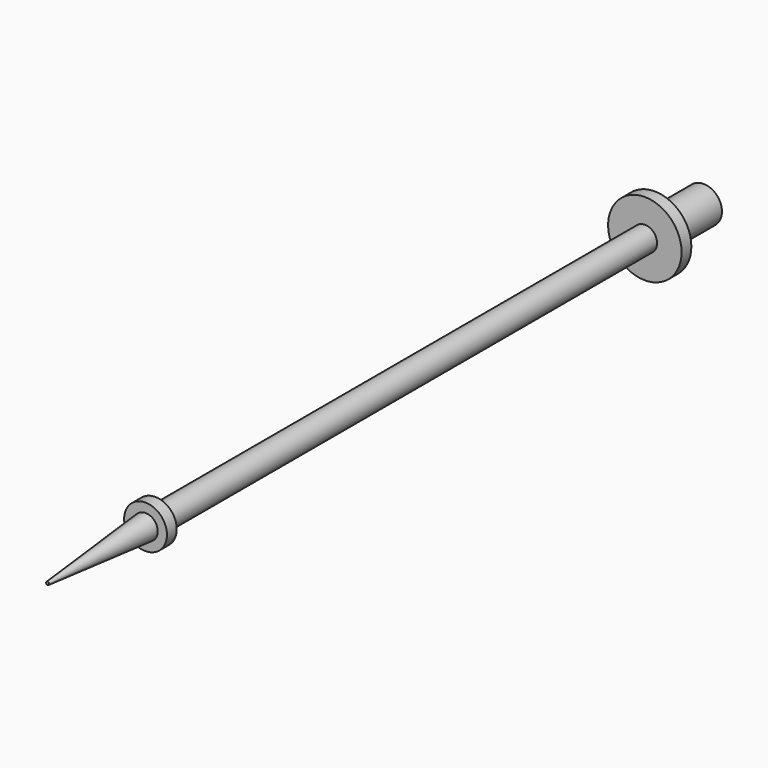
from build123d import *

# Parameters (mm, degrees)
F0_R     = 3
F1_DEPTH = 0.5
F2_R     = 1
F3_DEPTH = 50
F4_R     = 1.5
F5_DEPTH = 5
F6_R     = 1.75
F6_R_2   = 1
F7_DEPTH = 1
F8_R     = 1
F9_DEPTH = 10
F9_TAPER = 5


with BuildPart() as f1:
    # F0 (on Front) → F1 (new body, symmetric)
    with BuildSketch(Plane.XZ):
        Circle(F0_R)
    extrude(amount=F1_DEPTH, both=True)

    # F2 (on face) → F3 (join)
    with BuildSketch(Plane.XZ.offset(0.5)):
        Circle(F2_R)
    extrude(amount=F3_DEPTH)

    # F4 (on face) → F5 (join)
    with BuildSketch(Plane(origin=(0, 0.5, 0), x_dir=(-1, 0, 0), z_dir=(0, 1, 0))):
        Circle(F4_R)
    extrude(amount=F5_DEPTH)

    # F6 (on face) → F7 (join)
    with BuildSketch(Plane.XZ.offset(50.5)):
        Circle(F6_R)
        Circle(F6_R_2, mode=Mode.SUBTRACT)
        Circle(F6_R_2)
    extrude(amount=F7_DEPTH)

    # F8 (on face) → F9 (join)
    with BuildSketch(Plane.XZ.offset(51.5)):
        Circle(F8_R)
    extrude(amount=F9_DEPTH, taper=F9_TAPER)


solid = f1.part
